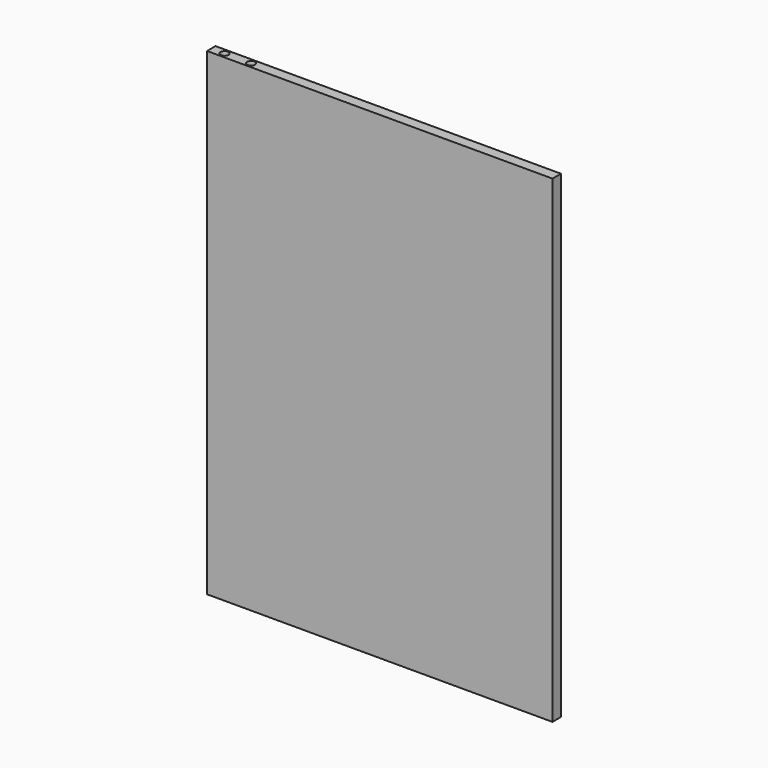
from build123d import *

# Parameters (mm, degrees)
F0_W     = 260
F0_H     = 360
F2_DEPTH = 4
F4_R     = 3


with BuildPart() as f2:
    # F0 (on Front) → F2 (new body, symmetric)
    with BuildSketch(Plane.XZ):
        Rectangle(F0_W, F0_H)
    extrude(amount=F2_DEPTH, both=True)

    # F5: sweep along a path in F1
    with BuildLine(Plane.XZ) as f5_path:
        Line((-120, 189.90253), (-120, -163.65))
        ThreePointArc((-120, -163.65), (-118.1401280605, -168.1401280605), (-113.65, -170))
        Line((-113.65, -170), (-33.65, -170))
        ThreePointArc((-33.65, -170), (-29.0538059223, -168.0961940777), (-27.15, -163.5))
        Line((-27.15, -163.5), (-27.15, 36.5))
        ThreePointArc((-27.15, 36.5), (-25.2461940777, 41.0961940777), (-20.65, 43))
        Line((-20.65, 43), (20.5, 43))
        ThreePointArc((20.5, 43), (25.0961940777, 41.0961940777), (27, 36.5))
        Line((27, 36.5), (27, -163.5))
        ThreePointArc((27, -163.5), (28.9038059223, -168.0961940777), (33.5, -170))
        Line((33.5, -170), (113.5, -170))
        ThreePointArc((113.5, -170), (118.0961940777, -168.0961940777), (120, -163.5))
        Line((120, -163.5), (120, 163.6424))
        ThreePointArc((120, 163.6424), (118.1401280605, 168.1325280605), (113.65, 169.9924))
        Line((113.65, 169.9924), (-93.65, 169.9924))
        ThreePointArc((-93.65, 169.9924), (-98.1401280605, 171.8522719395), (-100, 176.3424))
        Line((-100, 176.3424), (-100, 189.90253))
    # F4 (on plane+point) → F5 (sweep, cut)
    with BuildSketch(Plane.XY.offset(189.90253)):
        with Locations((-119.9871599674, 0)):
            Circle(F4_R)
    sweep(path=f5_path.line, mode=Mode.SUBTRACT)


solid = f2.part
